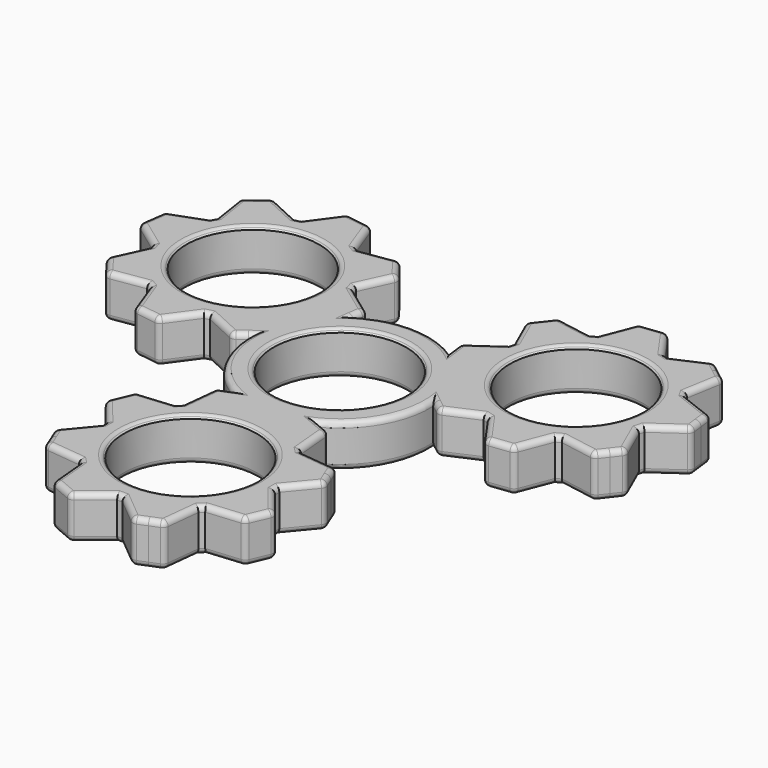
from build123d import *

# Parameters (mm, degrees)
F0_R     = 11.05
F1_DEPTH = 7.1
F2_SIZE  = 0.5
F3_R     = 0.9


with BuildPart() as f1:
    # F0 (on Top) → F1 (new body)
    with BuildSketch(Plane.XY):
        with BuildLine():
            Line((7.415863, -13.507002), (6.932297, -13.302002))
            ThreePointArc((6.932297, -13.302002), (12.992381, -7.496535), (14.985673, 0.655449))
            Line((14.985673, 0.655449), (15.156093, 0.522428))
            Line((15.156093, 0.522428), (16.432235, -0.473661))
            ThreePointArc((16.432235, -0.473661), (16.924209, -0.677734), (17.451169, -0.600288))
            Line((17.451169, -0.600288), (22.552799, 1.650391))
            ThreePointArc((22.552799, 1.650391), (22.978245, 1.525581), (23.407308, 1.413837))
            Line((23.407308, 1.413837), (26.625254, -3.139953))
            ThreePointArc((26.625254, -3.139953), (27.037369, -3.477363), (27.564251, -3.55534))
            Line((27.564251, -3.55534), (29.170961, -3.357312))
            Line((29.170961, -3.357312), (30.777671, -3.159284))
            ThreePointArc((30.777671, -3.159284), (31.26985, -2.955707), (31.587705, -2.528328))
            Line((31.587705, -2.528328), (33.603631, 2.670539))
            ThreePointArc((33.603631, 2.670539), (33.992721, 2.883121), (34.375129, 3.107499))
            Line((34.375129, 3.107499), (39.870577, 2.162915))
            ThreePointArc((39.870577, 2.162915), (40.400571, 2.21574), (40.828271, 2.533163))
            Line((40.828271, 2.533163), (41.824359, 3.809305))
            Line((41.824359, 3.809305), (42.820448, 5.085448))
            ThreePointArc((42.820448, 5.085448), (43.024521, 5.577422), (42.947075, 6.104382))
            Line((42.947075, 6.104382), (40.696396, 11.206011))
            ThreePointArc((40.696396, 11.206011), (40.821206, 11.631457), (40.93295, 12.06052))
            Line((40.93295, 12.06052), (45.48674, 15.278467))
            ThreePointArc((45.48674, 15.278467), (45.82415, 15.690582), (45.902127, 16.217463))
            Line((45.902127, 16.217463), (45.7041, 17.824173))
            Line((45.7041, 17.824173), (45.506072, 19.430883))
            ThreePointArc((45.506072, 19.430883), (45.302495, 19.923063), (44.875116, 20.240917))
            Line((44.875116, 20.240917), (39.676248, 22.256844))
            ThreePointArc((39.676248, 22.256844), (39.463666, 22.645933), (39.239288, 23.028342))
            Line((39.239288, 23.028342), (40.183872, 28.523789))
            ThreePointArc((40.183872, 28.523789), (40.131048, 29.053784), (39.813625, 29.481483))
            Line((39.813625, 29.481483), (38.537482, 30.477572))
            Line((38.537482, 30.477572), (37.26134, 31.473661))
            ThreePointArc((37.26134, 31.473661), (36.769366, 31.677734), (36.242406, 31.600288))
            Line((36.242406, 31.600288), (31.140776, 29.349609))
            ThreePointArc((31.140776, 29.349609), (30.71533, 29.474419), (30.286267, 29.586163))
            Line((30.286267, 29.586163), (27.068321, 34.139953))
            ThreePointArc((27.068321, 34.139953), (26.656206, 34.477363), (26.129324, 34.55534))
            Line((26.129324, 34.55534), (24.522614, 34.357312))
            Line((24.522614, 34.357312), (22.915904, 34.159284))
            ThreePointArc((22.915904, 34.159284), (22.423725, 33.955707), (22.10587, 33.528328))
            Line((22.10587, 33.528328), (20.089944, 28.329461))
            ThreePointArc((20.089944, 28.329461), (19.700854, 28.116879), (19.318446, 27.892501))
            Line((19.318446, 27.892501), (13.822998, 28.837085))
            ThreePointArc((13.822998, 28.837085), (13.293004, 28.78426), (12.865304, 28.466837))
            Line((12.865304, 28.466837), (11.869216, 27.190695))
            Line((11.869216, 27.190695), (10.873127, 25.914552))
            ThreePointArc((10.873127, 25.914552), (10.669054, 25.422578), (10.7465, 24.895618))
            Line((10.7465, 24.895618), (12.997179, 19.793989))
            ThreePointArc((12.997179, 19.793989), (12.872369, 19.368543), (12.760625, 18.93948))
            Line((12.760625, 18.93948), (8.206835, 15.721533))
            ThreePointArc((8.206835, 15.721533), (7.869425, 15.309418), (7.791448, 14.782537))
            Line((7.791448, 14.782537), (7.989475, 13.175827))
            Line((7.989475, 13.175827), (8.053724, 12.654546))
            ThreePointArc((8.053724, 12.654546), (-0.004, 14.999999), (-8.060472, 12.650249))
            Line((-8.060472, 12.650249), (-8.030482, 12.864347))
            Line((-8.030482, 12.864347), (-7.805916, 14.467564))
            ThreePointArc((-7.805916, 14.467564), (-7.87517, 14.995662), (-8.20572, 15.4133))
            Line((-8.20572, 15.4133), (-12.70568, 18.706101))
            ThreePointArc((-12.70568, 18.706101), (-12.810315, 19.136953), (-12.928073, 19.564405))
            Line((-12.928073, 19.564405), (-10.593348, 24.628123))
            ThreePointArc((-10.593348, 24.628123), (-10.5072, 25.15373), (-10.703111, 25.649011))
            Line((-10.703111, 25.649011), (-11.677963, 26.941449))
            Line((-11.677963, 26.941449), (-12.652815, 28.233887))
            ThreePointArc((-12.652815, 28.233887), (-13.075208, 28.558339), (-13.604256, 28.619919))
            Line((-13.604256, 28.619919), (-19.11457, 27.766329))
            ThreePointArc((-19.11457, 27.766329), (-19.493217, 27.996999), (-19.878738, 28.215986))
            Line((-19.878738, 28.215986), (-21.808428, 33.447475))
            ThreePointArc((-21.808428, 33.447475), (-22.119172, 33.880051), (-22.607919, 34.091738))
            Line((-22.607919, 34.091738), (-24.211135, 34.316305))
            Line((-24.211135, 34.316305), (-25.814351, 34.540872))
            ThreePointArc((-25.814351, 34.540872), (-26.34245, 34.471617), (-26.760087, 34.141067))
            Line((-26.760087, 34.141067), (-30.052889, 29.641107))
            ThreePointArc((-30.052889, 29.641107), (-30.483741, 29.536473), (-30.911192, 29.418715))
            Line((-30.911192, 29.418715), (-35.97491, 31.753439))
            ThreePointArc((-35.97491, 31.753439), (-36.500518, 31.839587), (-36.995799, 31.643677))
            Line((-36.995799, 31.643677), (-38.288237, 30.668825))
            Line((-38.288237, 30.668825), (-39.580674, 29.693973))
            ThreePointArc((-39.580674, 29.693973), (-39.905126, 29.27158), (-39.966706, 28.742531))
            Line((-39.966706, 28.742531), (-39.113116, 23.232217))
            ThreePointArc((-39.113116, 23.232217), (-39.343787, 22.853571), (-39.562773, 22.468049))
            Line((-39.562773, 22.468049), (-44.794262, 20.538359))
            ThreePointArc((-44.794262, 20.538359), (-45.226839, 20.227615), (-45.438526, 19.738869))
            Line((-45.438526, 19.738869), (-45.663093, 18.135653))
            Line((-45.663093, 18.135653), (-45.88766, 16.532436))
            ThreePointArc((-45.88766, 16.532436), (-45.818405, 16.004338), (-45.487855, 15.5867))
            Line((-45.487855, 15.5867), (-40.987895, 12.293899))
            ThreePointArc((-40.987895, 12.293899), (-40.88326, 11.863047), (-40.765502, 11.435595))
            Line((-40.765502, 11.435595), (-43.100227, 6.371877))
            ThreePointArc((-43.100227, 6.371877), (-43.186375, 5.84627), (-42.990464, 5.350989))
            Line((-42.990464, 5.350989), (-42.015612, 4.058551))
            Line((-42.015612, 4.058551), (-41.04076, 2.766113))
            ThreePointArc((-41.04076, 2.766113), (-40.618367, 2.441661), (-40.089319, 2.380081))
            Line((-40.089319, 2.380081), (-34.579005, 3.233671))
            ThreePointArc((-34.579005, 3.233671), (-34.200358, 3.003001), (-33.814837, 2.784014))
            Line((-33.814837, 2.784014), (-31.885147, -2.447475))
            ThreePointArc((-31.885147, -2.447475), (-31.574403, -2.880051), (-31.085656, -3.091738))
            Line((-31.085656, -3.091738), (-29.48244, -3.316305))
            Line((-29.48244, -3.316305), (-27.879224, -3.540872))
            ThreePointArc((-27.879224, -3.540872), (-27.351125, -3.471617), (-26.933488, -3.141067))
            Line((-26.933488, -3.141067), (-23.640686, 1.358893))
            ThreePointArc((-23.640686, 1.358893), (-23.209834, 1.463527), (-22.782383, 1.581285))
            Line((-22.782383, 1.581285), (-17.718665, -0.753439))
            ThreePointArc((-17.718665, -0.753439), (-17.193057, -0.839587), (-16.697776, -0.643677))
            Line((-16.697776, -0.643677), (-15.405338, 0.331175))
            Line((-15.405338, 0.331175), (-14.98602, 0.647456))
            ThreePointArc((-14.98602, 0.647456), (-12.98838, -7.503464), (-6.925201, -13.305698))
            Line((-6.925201, -13.305698), (-7.12561, -13.386776))
            Line((-7.12561, -13.386776), (-8.62632, -13.993903))
            ThreePointArc((-8.62632, -13.993903), (-9.049039, -14.317929), (-9.245449, -14.813012))
            Line((-9.245449, -14.813012), (-9.847119, -20.356492))
            ThreePointArc((-9.847119, -20.356492), (-10.16793, -20.662534), (-10.479235, -20.978242))
            Line((-10.479235, -20.978242), (-16.031906, -21.48817))
            ThreePointArc((-16.031906, -21.48817), (-16.530169, -21.676367), (-16.86114, -22.093671))
            Line((-16.86114, -22.093671), (-17.492998, -23.584137))
            Line((-17.492998, -23.584137), (-18.124856, -25.074603))
            ThreePointArc((-18.124856, -25.074603), (-18.194643, -25.602631), (-17.983449, -26.091591))
            Line((-17.983449, -26.091591), (-14.489061, -30.436868))
            ThreePointArc((-14.489061, -30.436868), (-14.499504, -30.88012), (-14.496391, -31.323485))
            Line((-14.496391, -31.323485), (-18.062149, -35.61039))
            ThreePointArc((-18.062149, -35.61039), (-18.281399, -36.095791), (-18.220352, -36.624901))
            Line((-18.220352, -36.624901), (-17.613224, -38.12561))
            Line((-17.613224, -38.12561), (-17.006097, -39.62632))
            ThreePointArc((-17.006097, -39.62632), (-16.682071, -40.049039), (-16.186988, -40.245449))
            Line((-16.186988, -40.245449), (-10.643508, -40.847119))
            ThreePointArc((-10.643508, -40.847119), (-10.337466, -41.16793), (-10.021758, -41.479235))
            Line((-10.021758, -41.479235), (-9.51183, -47.031906))
            ThreePointArc((-9.51183, -47.031906), (-9.323633, -47.530169), (-8.906329, -47.86114))
            Line((-8.906329, -47.86114), (-7.415863, -48.492998))
            Line((-7.415863, -48.492998), (-5.925397, -49.124856))
            ThreePointArc((-5.925397, -49.124856), (-5.397369, -49.194643), (-4.908409, -48.983449))
            Line((-4.908409, -48.983449), (-0.563132, -45.489061))
            ThreePointArc((-0.563132, -45.489061), (-0.11988, -45.499504), (0.323485, -45.496391))
            Line((0.323485, -45.496391), (4.61039, -49.062149))
            ThreePointArc((4.61039, -49.062149), (5.095791, -49.281399), (5.624901, -49.220352))
            Line((5.624901, -49.220352), (7.12561, -48.613224))
            Line((7.12561, -48.613224), (8.62632, -48.006097))
            ThreePointArc((8.62632, -48.006097), (9.049039, -47.682071), (9.245449, -47.186988))
            Line((9.245449, -47.186988), (9.847119, -41.643508))
            ThreePointArc((9.847119, -41.643508), (10.16793, -41.337466), (10.479235, -41.021758))
            Line((10.479235, -41.021758), (16.031906, -40.51183))
            ThreePointArc((16.031906, -40.51183), (16.530169, -40.323633), (16.86114, -39.906329))
            Line((16.86114, -39.906329), (17.492998, -38.415863))
            Line((17.492998, -38.415863), (18.124856, -36.925397))
            ThreePointArc((18.124856, -36.925397), (18.194643, -36.397369), (17.983449, -35.908409))
            Line((17.983449, -35.908409), (14.489061, -31.563132))
            ThreePointArc((14.489061, -31.563132), (14.499504, -31.11988), (14.496391, -30.676515))
            Line((14.496391, -30.676515), (18.062149, -26.38961))
            ThreePointArc((18.062149, -26.38961), (18.281399, -25.904209), (18.220352, -25.375099))
            Line((18.220352, -25.375099), (17.613224, -23.87439))
            Line((17.613224, -23.87439), (17.006097, -22.37368))
            ThreePointArc((17.006097, -22.37368), (16.682071, -21.950961), (16.186988, -21.754551))
            Line((16.186988, -21.754551), (10.643508, -21.152881))
            ThreePointArc((10.643508, -21.152881), (10.337466, -20.83207), (10.021758, -20.520765))
            Line((10.021758, -20.520765), (9.51183, -14.968094))
            ThreePointArc((9.51183, -14.968094), (9.323633, -14.469831), (8.906329, -14.13886))
            Line((8.906329, -14.13886), (7.415863, -13.507002))
        make_face()
        with Locations((0, -31)):
            Circle(F0_R, mode=Mode.SUBTRACT)
        Circle(F0_R, mode=Mode.SUBTRACT)
        with Locations((-26.846788, 15.5)):
            Circle(F0_R, mode=Mode.SUBTRACT)
        with Locations((26.846788, 15.5)):
            Circle(F0_R, mode=Mode.SUBTRACT)
    extrude(amount=F1_DEPTH)

    # F2
    f2_edges = [f1.edges().sort_by_distance(p)[0] for p in [
        (-37.896788, 15.5, 7.1),
        (-11.05, 0, 7.1),
        (15.796788, 15.5, 7.1),
        (-11.05, -31, 7.1),
    ]]
    chamfer(f2_edges, length=F2_SIZE)

    # F3
    f3_edges = [f1.edges().sort_by_distance(p)[0] for p in [
        (-38.396788, 15.5, 7.1),
        (-41.932864, 8.903736, 7.1),
        (-43.186375, 5.84627, 7.1),
        (-42.015612, 4.058551, 7.1),
        (-40.618367, 2.441661, 7.1),
        (-37.334162, 2.806876, 7.1),
        (-34.200358, 3.003001, 7.1),
        (-32.849992, 0.16827, 7.1),
        (-31.574403, -2.880051, 7.1),
        (-29.48244, -3.316305, 7.1),
        (-27.351125, -3.471617, 7.1),
        (-25.287087, -0.891087, 7.1),
        (-23.209834, 1.463527, 7.1),
        (-20.250524, 0.413923, 7.1),
        (-17.193057, -0.839587, 7.1),
        (-15.841898, 0.00189, 7.1),
        (-12.98838, -7.503464, 7.1),
        (-7.77576, -13.6498, 7.1),
        (-9.049039, -14.317929, 7.1),
        (-9.546284, -17.584752, 7.1),
        (-10.16793, -20.662534, 7.1),
        (-13.25557, -21.233206, 7.1),
        (-16.530169, -21.676367, 7.1),
        (-17.492998, -23.584137, 7.1),
        (-18.194643, -25.602631, 7.1),
        (-16.236255, -28.264229, 7.1),
        (-14.499504, -30.88012, 7.1),
        (-16.27927, -33.466938, 7.1),
        (-18.281399, -36.095791, 7.1),
        (-17.613224, -38.12561, 7.1),
        (-16.682071, -40.049039, 7.1),
        (-13.415248, -40.546284, 7.1),
        (-10.337466, -41.16793, 7.1),
        (-9.766794, -44.25557, 7.1),
        (-9.323633, -47.530169, 7.1),
        (-7.415863, -48.492998, 7.1),
        (-5.397369, -49.194643, 7.1),
        (-2.735771, -47.236255, 7.1),
        (-0.11988, -45.499504, 7.1),
        (2.466938, -47.27927, 7.1),
        (5.095791, -49.281399, 7.1),
        (7.12561, -48.613224, 7.1),
        (9.049039, -47.682071, 7.1),
        (9.546284, -44.415248, 7.1),
        (10.16793, -41.337466, 7.1),
        (13.25557, -40.766794, 7.1),
        (16.530169, -40.323633, 7.1),
        (17.492998, -38.415863, 7.1),
        (18.194643, -36.397369, 7.1),
        (16.236255, -33.735771, 7.1),
        (14.499504, -31.11988, 7.1),
        (16.27927, -28.533062, 7.1),
        (18.281399, -25.904209, 7.1),
        (17.613224, -23.87439, 7.1),
        (16.682071, -21.950961, 7.1),
        (13.415248, -21.453716, 7.1),
        (10.337466, -20.83207, 7.1),
        (9.766794, -17.74443, 7.1),
        (9.323633, -14.469831, 7.1),
        (7.919313, -13.720431, 7.1),
        (12.992381, -7.496535, 7.1),
        (15.708954, 0.090894, 7.1),
        (16.924209, -0.677734, 7.1),
        (20.001984, 0.525052, 7.1),
        (22.978245, 1.525581, 7.1),
        (25.016281, -0.863058, 7.1),
        (27.037369, -3.477363, 7.1),
        (29.170961, -3.357312, 7.1),
        (31.26985, -2.955707, 7.1),
        (32.595668, 0.071106, 7.1),
        (33.992721, 2.883121, 7.1),
        (37.122853, 2.635207, 7.1),
        (40.400571, 2.21574, 7.1),
        (41.824359, 3.809305, 7.1),
        (43.024521, 5.577422, 7.1),
        (41.821736, 8.655197, 7.1),
        (40.821206, 11.631457, 7.1),
        (43.209845, 13.669494, 7.1),
        (45.82415, 15.690582, 7.1),
        (45.7041, 17.824173, 7.1),
        (45.302495, 19.923063, 7.1),
        (42.275682, 21.248881, 7.1),
        (39.463666, 22.645933, 7.1),
        (39.71158, 25.776066, 7.1),
        (40.131048, 29.053784, 7.1),
        (38.537482, 30.477572, 7.1),
        (36.769366, 31.677734, 7.1),
        (33.691591, 30.474948, 7.1),
        (30.71533, 29.474419, 7.1),
        (28.677294, 31.863058, 7.1),
        (26.656206, 34.477363, 7.1),
        (24.522614, 34.357312, 7.1),
        (22.423725, 33.955707, 7.1),
        (21.097907, 30.928894, 7.1),
        (19.700854, 28.116879, 7.1),
        (16.570722, 28.364793, 7.1),
        (13.293004, 28.78426, 7.1),
        (11.869216, 27.190695, 7.1),
        (10.669054, 25.422578, 7.1),
        (11.871839, 22.344803, 7.1),
        (12.872369, 19.368543, 7.1),
        (10.48373, 17.330506, 7.1),
        (7.869425, 15.309418, 7.1),
        (7.922586, 13.718541, 7.1),
        (-0.004, 14.999999, 7.1),
        (-7.933194, 13.558906, 7.1),
        (-7.87517, 14.995662, 7.1),
        (-10.4557, 17.0597, 7.1),
        (-12.810315, 19.136953, 7.1),
        (-11.760711, 22.096264, 7.1),
        (-10.5072, 25.15373, 7.1),
        (-11.677963, 26.941449, 7.1),
        (-13.075208, 28.558339, 7.1),
        (-16.359413, 28.193124, 7.1),
        (-19.493217, 27.996999, 7.1),
        (-20.843583, 30.83173, 7.1),
        (-22.119172, 33.880051, 7.1),
        (-24.211135, 34.316305, 7.1),
        (-26.34245, 34.471617, 7.1),
        (-28.406488, 31.891087, 7.1),
        (-30.483741, 29.536473, 7.1),
        (-33.443051, 30.586077, 7.1),
        (-36.500518, 31.839587, 7.1),
        (-38.288237, 30.668825, 7.1),
        (-39.905126, 29.27158, 7.1),
        (-39.539911, 25.987374, 7.1),
        (-39.343787, 22.853571, 7.1),
        (-42.178518, 21.503204, 7.1),
        (-45.226839, 20.227615, 7.1),
        (-45.663093, 18.135653, 7.1),
        (-45.818405, 16.004338, 7.1),
        (-43.237875, 13.9403, 7.1),
        (-40.88326, 11.863047, 7.1),
        (-11.55, 0, 7.1),
        (15.296788, 15.5, 7.1),
        (-11.55, -31, 7.1),
        (-41.932864, 8.903736, 0),
        (-43.186375, 5.84627, 0),
        (-42.015612, 4.058551, 0),
        (-40.618367, 2.441661, 0),
        (-37.334162, 2.806876, 0),
        (-34.200358, 3.003001, 0),
        (-32.849992, 0.16827, 0),
        (-31.574403, -2.880051, 0),
        (-29.48244, -3.316305, 0),
        (-27.351125, -3.471617, 0),
        (-25.287087, -0.891087, 0),
        (-23.209834, 1.463527, 0),
        (-20.250524, 0.413923, 0),
        (-17.193057, -0.839587, 0),
        (-15.841898, 0.00189, 0),
        (-12.98838, -7.503464, 0),
        (-7.77576, -13.6498, 0),
        (-9.049039, -14.317929, 0),
        (-9.546284, -17.584752, 0),
        (-10.16793, -20.662534, 0),
        (-13.25557, -21.233206, 0),
        (-16.530169, -21.676367, 0),
        (-17.492998, -23.584137, 0),
        (-18.194643, -25.602631, 0),
        (-16.236255, -28.264229, 0),
        (-14.499504, -30.88012, 0),
        (-16.27927, -33.466938, 0),
        (-18.281399, -36.095791, 0),
        (-17.613224, -38.12561, 0),
        (-16.682071, -40.049039, 0),
        (-13.415248, -40.546284, 0),
        (-10.337466, -41.16793, 0),
        (-9.766794, -44.25557, 0),
        (-9.323633, -47.530169, 0),
        (-7.415863, -48.492998, 0),
        (-5.397369, -49.194643, 0),
        (-2.735771, -47.236255, 0),
        (-0.11988, -45.499504, 0),
        (2.466938, -47.27927, 0),
        (5.095791, -49.281399, 0),
        (7.12561, -48.613224, 0),
        (9.049039, -47.682071, 0),
        (9.546284, -44.415248, 0),
        (10.16793, -41.337466, 0),
        (13.25557, -40.766794, 0),
        (16.530169, -40.323633, 0),
        (17.492998, -38.415863, 0),
        (18.194643, -36.397369, 0),
        (16.236255, -33.735771, 0),
        (14.499504, -31.11988, 0),
        (16.27927, -28.533062, 0),
        (18.281399, -25.904209, 0),
        (17.613224, -23.87439, 0),
        (16.682071, -21.950961, 0),
        (13.415248, -21.453716, 0),
        (10.337466, -20.83207, 0),
        (9.766794, -17.74443, 0),
        (9.323633, -14.469831, 0),
        (7.919313, -13.720431, 0),
        (12.992381, -7.496535, 0),
        (15.708954, 0.090894, 0),
        (16.924209, -0.677734, 0),
        (20.001984, 0.525052, 0),
        (22.978245, 1.525581, 0),
        (25.016281, -0.863058, 0),
        (27.037369, -3.477363, 0),
        (29.170961, -3.357312, 0),
        (31.26985, -2.955707, 0),
        (32.595668, 0.071106, 0),
        (33.992721, 2.883121, 0),
        (37.122853, 2.635207, 0),
        (40.400571, 2.21574, 0),
        (41.824359, 3.809305, 0),
        (43.024521, 5.577422, 0),
        (41.821736, 8.655197, 0),
        (40.821206, 11.631457, 0),
        (43.209845, 13.669494, 0),
        (45.82415, 15.690582, 0),
        (45.7041, 17.824173, 0),
        (45.302495, 19.923063, 0),
        (42.275682, 21.248881, 0),
        (39.463666, 22.645933, 0),
        (39.71158, 25.776066, 0),
        (40.131048, 29.053784, 0),
        (38.537482, 30.477572, 0),
        (36.769366, 31.677734, 0),
        (33.691591, 30.474948, 0),
        (30.71533, 29.474419, 0),
        (28.677294, 31.863058, 0),
        (26.656206, 34.477363, 0),
        (24.522614, 34.357312, 0),
        (22.423725, 33.955707, 0),
        (21.097907, 30.928894, 0),
        (19.700854, 28.116879, 0),
        (16.570722, 28.364793, 0),
        (13.293004, 28.78426, 0),
        (11.869216, 27.190695, 0),
        (10.669054, 25.422578, 0),
        (11.871839, 22.344803, 0),
        (12.872369, 19.368543, 0),
        (10.48373, 17.330506, 0),
        (7.869425, 15.309418, 0),
        (7.922586, 13.718541, 0),
        (-0.004, 14.999999, 0),
        (-7.933194, 13.558906, 0),
        (-7.87517, 14.995662, 0),
        (-10.4557, 17.0597, 0),
        (-12.810315, 19.136953, 0),
        (-11.760711, 22.096264, 0),
        (-10.5072, 25.15373, 0),
        (-11.677963, 26.941449, 0),
        (-13.075208, 28.558339, 0),
        (-16.359413, 28.193124, 0),
        (-19.493217, 27.996999, 0),
        (-20.843583, 30.83173, 0),
        (-22.119172, 33.880051, 0),
        (-24.211135, 34.316305, 0),
        (-26.34245, 34.471617, 0),
        (-28.406488, 31.891087, 0),
        (-30.483741, 29.536473, 0),
        (-33.443051, 30.586077, 0),
        (-36.500518, 31.839587, 0),
        (-38.288237, 30.668825, 0),
        (-39.905126, 29.27158, 0),
        (-39.539911, 25.987374, 0),
        (-39.343787, 22.853571, 0),
        (-42.178518, 21.503204, 0),
        (-45.226839, 20.227615, 0),
        (-45.663093, 18.135653, 0),
        (-45.818405, 16.004338, 0),
        (-43.237875, 13.9403, 0),
        (-40.88326, 11.863047, 0),
        (-11.05, -31, 0),
        (-11.05, 0, 0),
        (-37.896788, 15.5, 0),
        (15.796788, 15.5, 0),
    ]]
    fillet(f3_edges, radius=F3_R)


solid = f1.part
